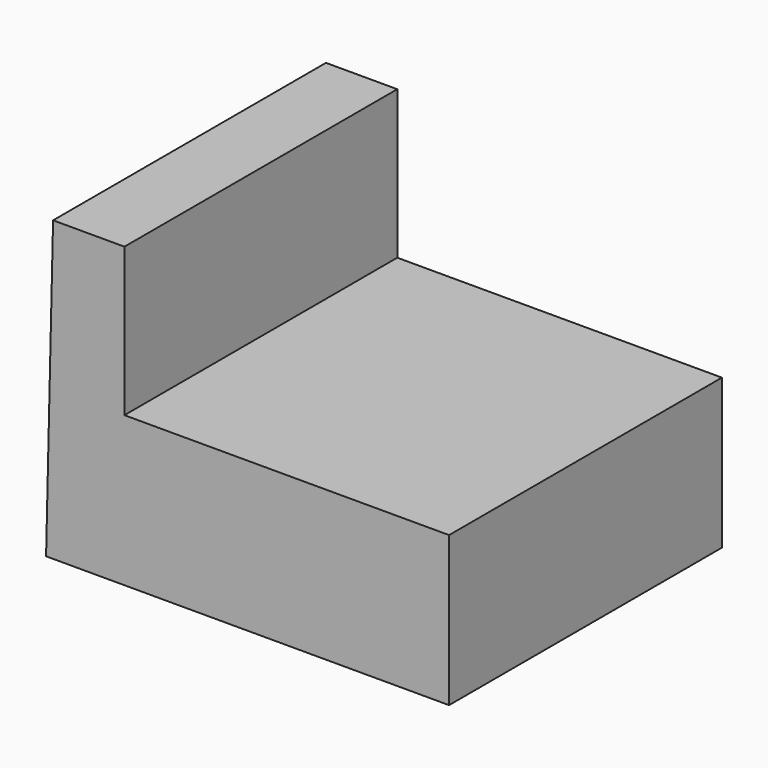
from build123d import *

# Parameters (mm, degrees)
F1_DEPTH = 75.438
F3_DEPTH = 95.758


with BuildPart() as f1:
    # F0 (on Front) → F1 (new body)
    with BuildSketch(Plane.XZ):
        Polygon((41.475207, 48.439324), (-46.11795, 48.439324), (-47.665533, -17.487679), (41.475207, -17.487679), align=None)
    extrude(amount=F1_DEPTH)

    # F2 (on Front) → F3 (cut)
    with BuildSketch(Plane.XZ):
        Polygon((33.737291, 48.439324), (-30.332612, 48.439324), (-30.332612, 15.63058), (42.094238, 15.63058), (42.094238, 48.439324), align=None)
    extrude(amount=F3_DEPTH, mode=Mode.SUBTRACT)


solid = f1.part
